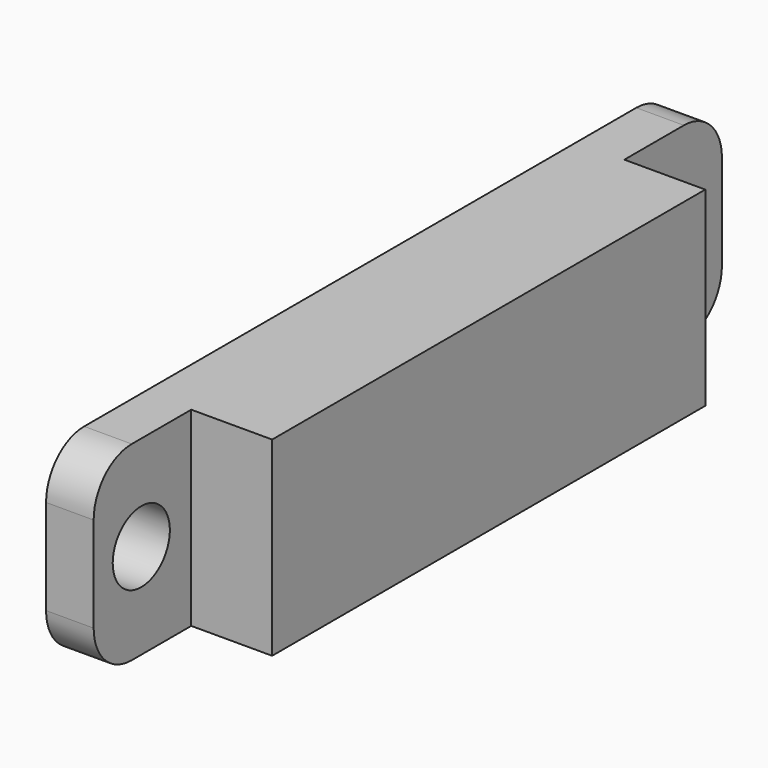
from build123d import *

# Parameters (mm, degrees)
PAD010_DEPTH            = 8
SKETCH006_R             = 1.5
POCKET013_DEPTH         = 5
FILLET007_R             = 2
BODY002_PITCH_ANGLE     = -90
BODY002_PLACEMENT_ANGLE = -180


with BuildPart() as part:
    # Sketch005 → Pad010 (new body)
    with BuildSketch(Plane.YZ):
        Polygon((-17, -5), (-11.875, -5), (-11.875, -1.6), (10.875, -1.6), (10.875, -5), (16, -5), (16, -7), (-17, -7), align=None)
    extrude(amount=PAD010_DEPTH)

    # Sketch006 (on Face7 of Pad010) → Pocket013 (cut)
    with BuildSketch(Plane.YX.offset(7)):
        with Locations((-14.5, 4)):
            Circle(SKETCH006_R)
        with Locations((13.5, 4)):
            Circle(SKETCH006_R)
    extrude(amount=-POCKET013_DEPTH, mode=Mode.SUBTRACT)

    # Fillet007
    fillet007_edges = [part.edges().sort_by_distance(p)[0] for p in [
        (8, -17, -6),
        (0, -17, -6),
        (8, 16, -6),
        (0, 16, -6),
    ]]
    fillet(fillet007_edges, radius=FILLET007_R)


with BuildPart() as part_1:
    # Body002 pitch: moved
    add(part.part.rotate(Axis((0, 0, 0), (0, 1, 0)), BODY002_PITCH_ANGLE))


with BuildPart() as part_2:
    # Body002 placement: moved
    add(part_1.part.moved(Location((9.75, 0, 64))).rotate(Axis((9.75, 0, 64), (0, 0, 1)), BODY002_PLACEMENT_ANGLE))


solid = part_2.part
